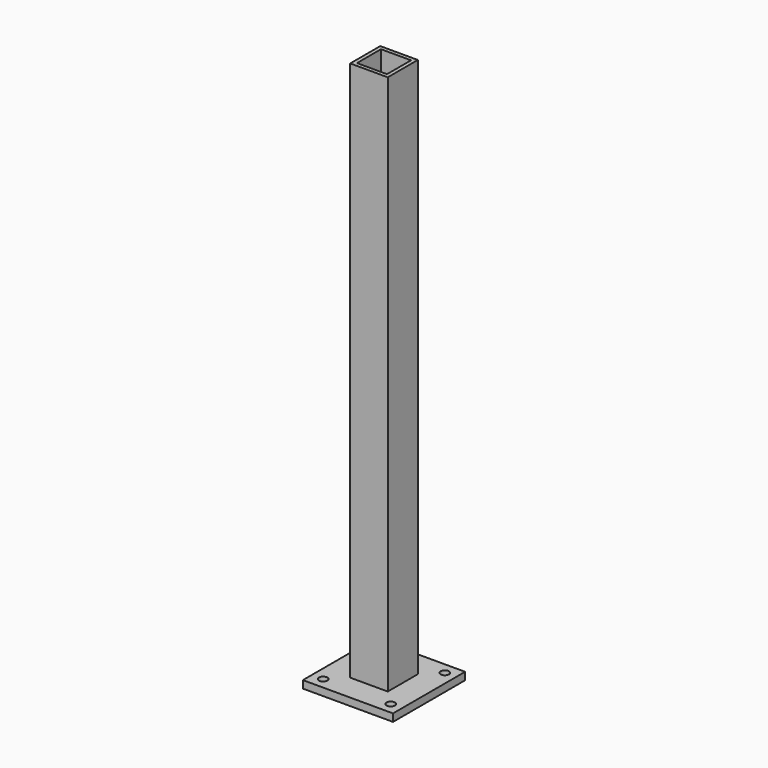
from build123d import *

# Parameters (mm, degrees)
F0_W     = 63.5
F0_H     = 914.4
F1_DEPTH = 63.5
F2_W     = 50.8
F2_H     = 50.8
F3_DEPTH = 914.401
F5_DEPTH = 12.7
F7_DEPTH = 25.4


with BuildPart() as f1:
    # F0 (on Front) → F1 (new body)
    with BuildSketch(Plane.XZ):
        with Locations((-31.75, 457.2)):
            Rectangle(F0_W, F0_H)
    extrude(amount=F1_DEPTH)

    # F2 (on face) → F3 (cut, through all)
    with BuildSketch(Plane(origin=(0, 0, 0), x_dir=(1, 0, 0), z_dir=(0, 0, -1))):
        with Locations((-31.75, 31.75)):
            Rectangle(F2_W, F2_H)
    extrude(amount=-F3_DEPTH, mode=Mode.SUBTRACT)

    # F4 (on face) → F5 (join)
    with BuildSketch(Plane(origin=(0, 0, 0), x_dir=(1, 0, 0), z_dir=(0, 0, -1))):
        Polygon((44.45, 107.95), (-63.5, 107.95), (-107.95, 107.95), (-107.95, -44.45), (44.45, -44.45), align=None)
    extrude(amount=F5_DEPTH)

    # F6 (on face) → F7 (cut)
    with BuildSketch(Plane.XY):
        with BuildLine():
            ThreePointArc((-81.75625, 25.4), (-88.9, 32.54375), (-96.04375, 25.4))
            Line((-96.04375, 25.4), (-81.75625, 25.4))
        make_face()
        with BuildLine():
            ThreePointArc((32.54375, 25.4), (25.4, 32.54375), (18.25625, 25.4))
            ThreePointArc((18.25625, 25.4), (25.4, 18.25625), (32.54375, 25.4))
        make_face()
        with BuildLine():
            Line((-81.75625, 25.4), (-96.04375, 25.4))
            ThreePointArc((-96.04375, 25.4), (-88.9, 18.25625), (-81.75625, 25.4))
        make_face()
        with BuildLine():
            ThreePointArc((-81.75625, -88.9), (-88.9, -81.75625), (-96.04375, -88.9))
            Line((-96.04375, -88.9), (-81.75625, -88.9))
        make_face()
        with BuildLine():
            ThreePointArc((32.54375, -88.9), (25.4, -81.75625), (18.25625, -88.9))
            Line((18.25625, -88.9), (32.54375, -88.9))
        make_face()
        with BuildLine():
            Line((32.54375, -88.9), (18.25625, -88.9))
            ThreePointArc((18.25625, -88.9), (25.4, -96.04375), (32.54375, -88.9))
        make_face()
        with BuildLine():
            Line((-81.75625, -88.9), (-96.04375, -88.9))
            ThreePointArc((-96.04375, -88.9), (-88.9, -96.04375), (-81.75625, -88.9))
        make_face()
    extrude(amount=-F7_DEPTH, mode=Mode.SUBTRACT)


solid = f1.part
